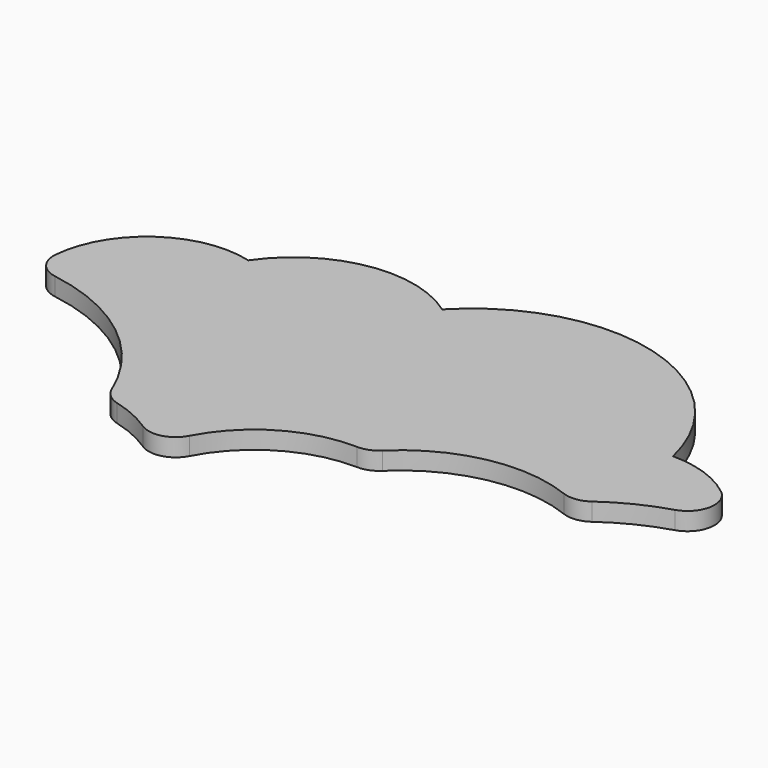
from build123d import *

# Parameters (mm, degrees)
PAD_DEPTH = 2


with BuildPart() as part:
    # Sketch → Pad (new body)
    with BuildSketch(Plane.XY):
        with BuildLine():
            ThreePointArc((-25.14228, 14.122309), (-34.314711, 12.50691), (-38.960225, 4.4346))
            ThreePointArc((-38.960225, 4.4346), (-38.334534, 2.331994), (-36.445064, 1.21739))
            ThreePointArc((-19.218733, -12.375098), (-26.062582, -3.336524), (-36.445064, 1.21739))
            ThreePointArc((-19.218733, -12.375098), (-18.418224, -13.487369), (-17.206581, -14.127592))
            ThreePointArc((-12.723117, -16.130275), (-14.882343, -14.944224), (-17.206581, -14.127592))
            ThreePointArc((-12.723117, -16.130275), (-10.318463, -16.533254), (-8.408728, -15.017448))
            ThreePointArc((4.346508, -7.504289), (-3.105363, -9.437089), (-8.408728, -15.017448))
            ThreePointArc((4.346508, -7.504289), (5.513399, -7.299154), (6.509873, -6.658253))
            ThreePointArc((23.982965, -3.122935), (14.727871, -2.327704), (6.509873, -6.658253))
            ThreePointArc((23.982965, -3.122935), (25.451337, -3.302873), (26.827171, -2.759206))
            ThreePointArc((33.472919, 0.532469), (30.01349, -0.837668), (26.827171, -2.759206))
            ThreePointArc((33.472919, 0.532469), (35.549324, 2.84038), (34.47019, 5.751287))
            ThreePointArc((34.47019, 5.751287), (30.959282, 7.688022), (27.006326, 8.359998))
            ThreePointArc((27.006326, 8.359998), (13.164565, 22.80365), (-6.112904, 17.456446))
            ThreePointArc((-6.112904, 17.456446), (-16.329844, 19.797437), (-25.14228, 14.122309))
        make_face()
    extrude(amount=PAD_DEPTH)


solid = part.part
